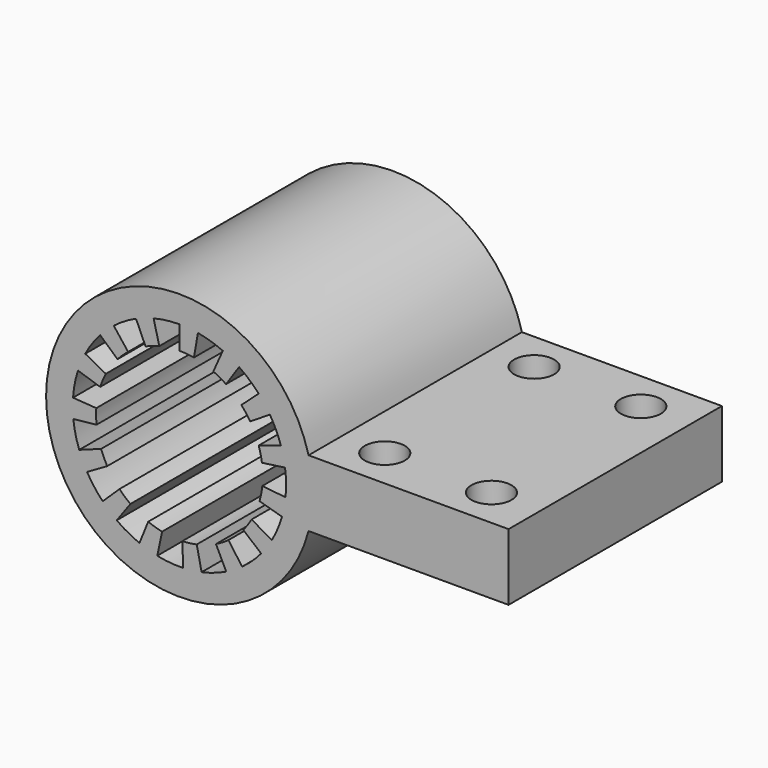
from build123d import *

# Parameters (mm, degrees)
F0_R          = 12.5
F1_DEPTH      = 20
F1_DEPTH_BACK = 20
F3_DEPTH      = 40.001
F4_R          = 3
F5_DEPTH      = 25.001
F7_DEPTH      = 5


with BuildPart() as f1:
    # F0 (on Front) → F1 (new body, two sides)
    with BuildSketch(Plane.XZ) as f1_sk:
        with BuildLine():
            Line((49.364916731, 5), (19.364916731, 5))
            ThreePointArc((19.364916731, 5), (-20, 0), (19.364916731, -5))
            Line((19.364916731, -5), (49.364916731, -5))
            Line((49.364916731, -5), (49.364916731, 5))
        make_face()
        Circle(F0_R, mode=Mode.SUBTRACT)
    extrude(amount=F1_DEPTH)
    extrude(f1_sk.sketch, amount=-F1_DEPTH_BACK)

    # F2 (on face) → F3 (cut, through all)
    with BuildSketch(Plane.XZ.offset(20)):
        with BuildLine():
            Line((5.0842080384, 11.4193182205), (6.5077862892, 14.6167273223))
            ThreePointArc((6.5077862892, 14.6167273223), (4.6779472756, 15.3008760954), (2.7783708427, 15.7569240482))
            Line((2.7783708427, 15.7569240482), (2.1706022208, 12.3100969127))
            ThreePointArc((2.1706022208, 12.3100969127), (3.654646309, 11.9538094495), (5.0842080384, 11.4193182205))
        make_face()
        with BuildLine():
            Line((-3.8707503296, 15.5247316204), (-3.024023695, 12.1286965784))
            ThreePointArc((-3.024023695, 12.1286965784), (-1.5233667926, 12.4068268955), (0, 12.5))
            Line((0, 12.5), (0, 16))
            ThreePointArc((0, 16), (-1.9499094945, 15.8807384263), (-3.8707503296, 15.5247316204))
        make_face()
        with BuildLine():
            Line((-9.8505836052, 12.6081720577), (-7.6957684416, 9.8501344201))
            ThreePointArc((-7.6957684416, 9.8501344201), (-6.4379759364, 10.7145912588), (-5.0842080384, 11.4193182205))
            Line((-5.0842080384, 11.4193182205), (-6.5077862892, 14.6167273223))
            ThreePointArc((-6.5077862892, 14.6167273223), (-8.2406091986, 13.7146768112), (-9.8505836052, 12.6081720577))
        make_face()
        with BuildLine():
            Line((-14.1271614857, 7.5115450046), (-11.0368449107, 5.8683945348))
            ThreePointArc((-11.0368449107, 5.8683945348), (-10.2394005536, 7.1697054544), (-9.2893103185, 8.3641325795))
            Line((-9.2893103185, 8.3641325795), (-11.8903172076, 10.7060897017))
            ThreePointArc((-11.8903172076, 10.7060897017), (-13.1064327086, 9.1772229816), (-14.1271614857, 7.5115450046))
        make_face()
        with BuildLine():
            Line((-15.9610248042, 1.1161035799), (-12.4695506282, 0.8719559218))
            ThreePointArc((-12.4695506282, 0.8719559218), (-12.2703397931, 2.3851124422), (-11.8882064537, 3.8627124297))
            Line((-11.8882064537, 3.8627124297), (-15.2169042607, 4.94427191))
            ThreePointArc((-15.2169042607, 4.94427191), (-15.7060349352, 3.052943926), (-15.9610248042, 1.1161035799))
        make_face()
        with BuildLine():
            Line((-15.0350819326, -5.4723222932), (-11.7461577598, -4.2752517916))
            ThreePointArc((-11.7461577598, -4.2752517916), (-12.1796258098, -2.8118881793), (-12.4315236921, -1.3066057908))
            Line((-12.4315236921, -1.3066057908), (-15.9123503259, -1.6724554123))
            ThreePointArc((-15.9123503259, -1.6724554123), (-15.5899210366, -3.5992168695), (-15.0350819326, -5.4723222932))
        make_face()
        with BuildLine():
            Line((-11.5094368054, -11.1145339273), (-8.9917475042, -8.6832296307))
            ThreePointArc((-8.9917475042, -8.6832296307), (-9.9829438756, -7.5226877894), (-10.8253175473, -6.25))
            Line((-10.8253175473, -6.25), (-13.8564064606, -8))
            ThreePointArc((-13.8564064606, -8), (-12.7781681608, -9.6290403704), (-11.5094368054, -11.1145339273))
        make_face()
        with BuildLine():
            Line((-5.9937054947, -14.8349416731), (-4.6825824177, -11.5897981821))
            ThreePointArc((-4.6825824177, -11.5897981821), (-6.0601202531, -10.9327463392), (-7.3473156537, -10.1127124297))
            Line((-7.3473156537, -10.1127124297), (-9.4045640367, -12.94427191))
            ThreePointArc((-9.4045640367, -12.94427191), (-7.7569539239, -13.9939153142), (-5.9937054947, -14.8349416731))
        make_face()
        with BuildLine():
            Line((0.5583919472, -15.9902532323), (0.4362437088, -12.4923853377))
            ThreePointArc((0.4362437088, -12.4923853377), (-1.0894467843, -12.4524337261), (-2.5988961352, -12.2268450092))
            Line((-2.5988961352, -12.2268450092), (-3.3265870531, -15.6503616117))
            ThreePointArc((-3.3265870531, -15.6503616117), (-1.394491884, -15.9391151695), (0.5583919472, -15.9902532323))
        make_face()
        with BuildLine():
            Line((7.0139383486, -14.3807047408), (5.4796393349, -11.2349255787))
            ThreePointArc((5.4796393349, -11.2349255787), (4.0696019307, -11.818982195), (2.5988961352, -12.2268450092))
            Line((2.5988961352, -12.2268450092), (3.3265870531, -15.6503616117))
            ThreePointArc((3.3265870531, -15.6503616117), (5.2090904713, -15.1282972096), (7.0139383486, -14.3807047408))
        make_face()
        with BuildLine():
            Line((12.2567110899, -10.284601755), (9.575555539, -8.0348451211))
            ThreePointArc((9.575555539, -8.0348451211), (8.5249795008, -9.1419212702), (7.3473156537, -10.1127124297))
            Line((7.3473156537, -10.1127124297), (9.4045640367, -12.94427191))
            ThreePointArc((9.4045640367, -12.94427191), (10.911973761, -11.7016592259), (12.2567110899, -10.284601755))
        make_face()
        with BuildLine():
            Line((15.380187135, -4.4101976931), (12.0157711992, -3.4454669477))
            ThreePointArc((12.0157711992, -3.4454669477), (11.5063106682, -4.8841391061), (10.8253175473, -6.25))
            Line((10.8253175473, -6.25), (13.8564064606, -8))
            ThreePointArc((13.8564064606, -8), (14.7280776552, -6.2516980558), (15.380187135, -4.4101976931))
        make_face()
        with BuildLine():
            Line((15.8442890999, 2.2267696154), (12.3783508593, 1.739663762))
            ThreePointArc((12.3783508593, 1.739663762), (12.4980961895, 0.2181550805), (12.4315236921, -1.3066057908))
            Line((12.4315236921, -1.3066057908), (15.9123503259, -1.6724554123))
            ThreePointArc((15.9123503259, -1.6724554123), (15.9975631225, 0.279238503), (15.8442890999, 2.2267696154))
        make_face()
        with BuildLine():
            Line((13.5687695385, 8.4787082277), (10.600601202, 6.6239908029))
            ThreePointArc((10.600601202, 6.6239908029), (11.328847338, 5.2827282718), (11.8882064537, 3.8627124297))
            Line((11.8882064537, 3.8627124297), (15.2169042607, 4.94427191))
            ThreePointArc((15.2169042607, 4.94427191), (14.5009245926, 6.7618921879), (13.5687695385, 8.4787082277))
        make_face()
        with BuildLine():
            Line((8.9470864555, 13.2646011609), (6.9899112934, 10.3629696569))
            ThreePointArc((6.9899112934, 10.3629696569), (8.2007378624, 9.4338697528), (9.2893103185, 8.3641325795))
            Line((9.2893103185, 8.3641325795), (11.8903172076, 10.7060897017))
            ThreePointArc((11.8903172076, 10.7060897017), (10.4969444638, 12.0753532836), (8.9470864555, 13.2646011609))
        make_face()
    extrude(amount=-F3_DEPTH, mode=Mode.SUBTRACT)

    # F4 (on face) → F5 (cut, through all)
    with BuildSketch(Plane.XY.offset(5)):
        with Locations((26, 14)):
            Circle(F4_R)
        with Locations((42, 14)):
            Circle(F4_R)
        with Locations((26, -14)):
            Circle(F4_R)
        with Locations((42, -14)):
            Circle(F4_R)
    extrude(amount=-F5_DEPTH, mode=Mode.SUBTRACT)

    # F6 (on face) → F7 (cut)
    with BuildSketch(Plane(origin=(0, 0, -5), x_dir=(1, 0, 0), z_dir=(0, 0, -1))):
        Polygon((31.7735026919, 14), (28.8867513459, 19), (23.1132486541, 19), (20.2264973081, 14), (23.1132486541, 9), (28.8867513459, 9), align=None)
        Polygon((39.1132486541, 9), (44.8867513459, 9), (47.7735026919, 14), (44.8867513459, 19), (39.1132486541, 19), (36.2264973081, 14), align=None)
        Polygon((39.1132486541, -9), (36.2264973081, -14), (39.1132486541, -19), (44.8867513459, -19), (47.7735026919, -14), (44.8867513459, -9), align=None)
        Polygon((20.2264973081, -14), (23.1132486541, -19), (28.8867513459, -19), (31.7735026919, -14), (28.8867513459, -9), (23.1132486541, -9), align=None)
    extrude(amount=-F7_DEPTH, mode=Mode.SUBTRACT)


solid = f1.part
